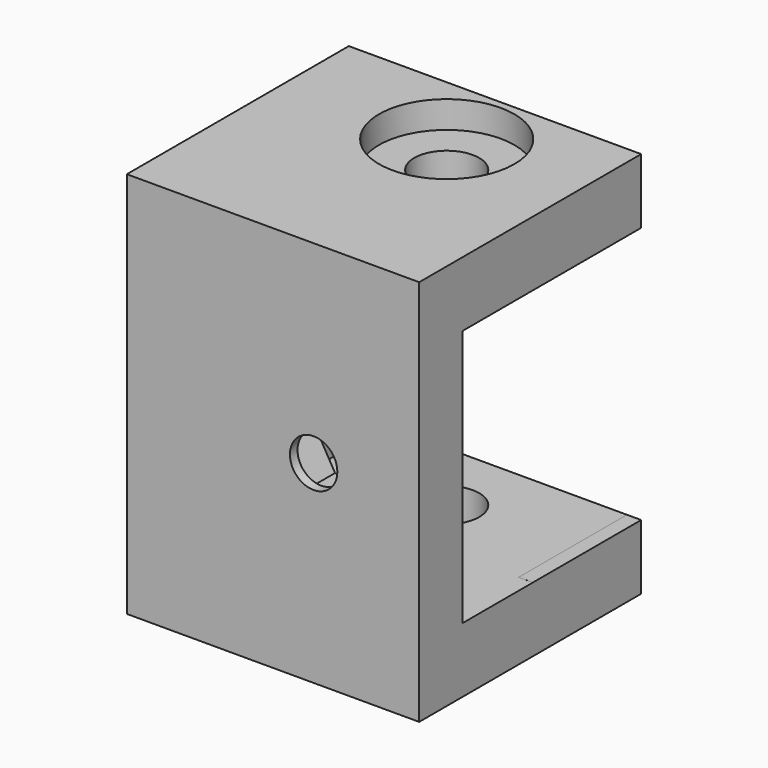
from build123d import *

# Parameters (mm, degrees)
SKETCH_W           = 23.599997
SKETCH_H           = 28.600128
SKETCH_R           = 1.75088
PAD_DEPTH          = 20.5
HOLE_D             = 4.8
HOLE_DEPTH         = 34
HOLE_CBORE_D       = 10
HOLE_CBORE_DEPTH   = 2.02
SKETCH002_W        = 6.496036
SKETCH002_H        = 19.001464
POCKET_DEPTH       = 19
POCKET001_DEPTH    = 19
POCKET001_FACE20_W = 6.501685
POCKET001_FACE20_H = 19
POCKET002_DEPTH    = 40
POCKET003_DEPTH    = 3.3
POCKET004_DEPTH    = 5
POCKET004_FACE5_W  = 20.5
POCKET004_FACE5_H  = 28.600128
POCKET005_DEPTH    = 2
POCKET006_DEPTH    = 20


with BuildPart() as part:
    # Sketch → Pad (new body)
    with BuildSketch(Plane.XZ):
        with Locations((0.4742105, 393.081741)):
            Rectangle(SKETCH_W, SKETCH_H)
        with Locations((2.474405, 393.078932)):
            Circle(SKETCH_R, mode=Mode.SUBTRACT)
    extrude(amount=-PAD_DEPTH)

    # Hole
    with Locations(Plane.XY.offset(407.4)):
        with Locations((0.346603, 14.950747)):
            CounterBoreHole(HOLE_D / 2, HOLE_CBORE_D / 2, HOLE_CBORE_DEPTH, depth=HOLE_DEPTH)

    # Sketch002 → Pocket (cut)
    with BuildSketch(Plane.YZ.offset(-3.5)):
        with Locations((7.252294, 393.082428)):
            Rectangle(SKETCH002_W, SKETCH002_H)
    extrude(amount=POCKET_DEPTH, mode=Mode.SUBTRACT)

    # Sketch003 → Pocket001 (cut)
    with BuildSketch(Plane.XY.offset(383.58)):
        with BuildLine():
            ThreePointArc((-8.5264420268, 9.000709), (-7.0612425813, 5.4638025679), (-3.5244, 3.998449))
            Line((-3.5244, 3.998449), (-3.5244, 10.500134))
            Line((-3.5244, 10.500134), (4.225286, 10.500134))
            Line((4.225286, 10.500134), (4.225286, 24.874678))
            Line((4.225286, 24.874678), (-8.5264420268, 21.309877))
            Line((-8.5264420268, 9.000709), (-8.5264420268, 21.309877))
        make_face()
    extrude(amount=POCKET001_DEPTH, mode=Mode.SUBTRACT)

    # Pocket001 Face20 → Pocket002 (cut)
    with BuildSketch(Plane(origin=(-3.5244, 7.2492915, 393.08), x_dir=(0, 1, 0), z_dir=(-1, 0, 0))):
        Rectangle(POCKET001_FACE20_W, POCKET001_FACE20_H)
    extrude(amount=-POCKET002_DEPTH, mode=Mode.SUBTRACT)

    # Sketch004 → Pocket003 (cut)
    with BuildSketch(Plane.XZ.offset(-4)):
        Polygon((0.857594, 395.881653), (-0.7589761165, 393.0817985758), (0.8574838835, 390.2818805758), (4.090514, 390.281817), (5.7070841165, 393.0816714242), (4.0906241165, 395.8815894242), align=None)
    extrude(amount=POCKET003_DEPTH, mode=Mode.SUBTRACT)

    # Pocket003 Face12 → Pocket004 (cut)
    with BuildSketch(Plane(origin=(4.225286, 15.5001559921, 393.0799999849), x_dir=(0, 1, 0), z_dir=(-1, 0, 0))):
        Polygon((4.9998440079, 9.4999999849), (-5.0000219921, 9.4999999849), (-5.0000219921, 9.4983039849), (-4.9998439921, 9.4983039849), (-4.9998439921, -9.5000000151), (4.9998440079, -9.5000000151), align=None)
    extrude(amount=-POCKET004_DEPTH, mode=Mode.SUBTRACT)

    # Pocket004 Face5 → Pocket005 (cut)
    with BuildSketch(Plane(origin=(12.274209, 11.051181849, 393.0817843597), x_dir=(0, -1, 0), z_dir=(1, 0, 0))):
        with Locations((0.801181849, 4.33597e-05)):
            Rectangle(POCKET004_FACE5_W, POCKET004_FACE5_H)
        Polygon((7.046905849, -9.5013756403), (0.550869849, -9.5013756403), (0.550869849, 9.5000883597), (0.551047849, 9.5000883597), (0.551047849, 9.5017843597), (7.052732849, 9.5017843597), (7.052732849, -9.4982156403), (7.046905849, -9.4982156403), align=None, mode=Mode.SUBTRACT)
    extrude(amount=-POCKET005_DEPTH, mode=Mode.SUBTRACT)

    # Pocket005 Face10 → Pocket006 (cut)
    with BuildSketch(Plane(origin=(9.7358804108, 10.500312, 393.1015544105), x_dir=(-1, 0, 0), z_dir=(0, -1, 0))):
        Polygon((13.2358804108, -9.4816055895), (13.2358804108, -9.4784455895), (0.5105944108, -9.4784455895), (0.5105944108, 9.5198584105), (-0.5383285892, 9.5198584105), (-0.5383285892, -9.4816055895), align=None)
    extrude(amount=-POCKET006_DEPTH, mode=Mode.SUBTRACT)


solid = part.part
